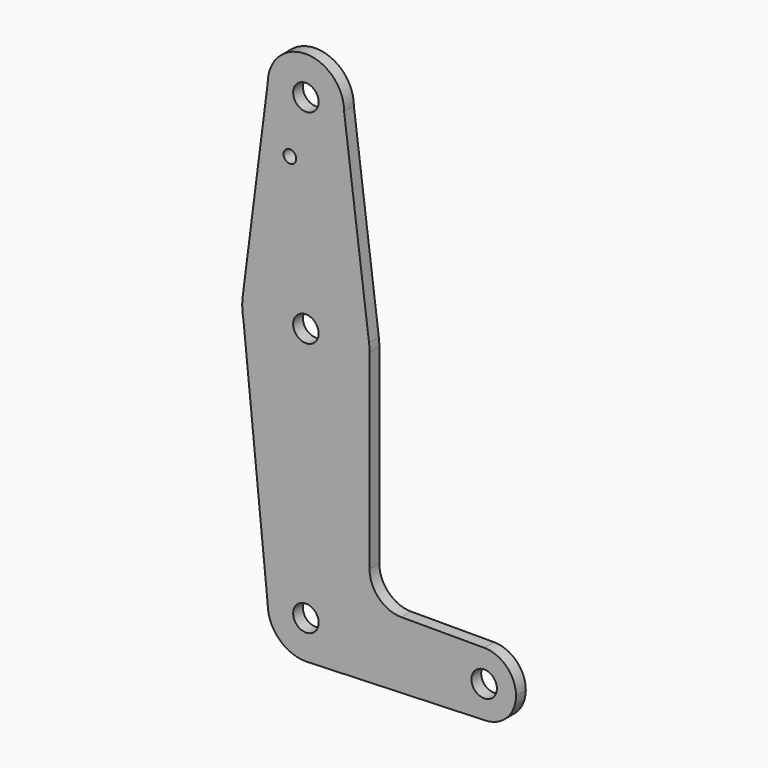
from build123d import *

# Parameters (mm, degrees)
F0_R     = 3.175
F0_R_2   = 1.5875
F1_DEPTH = 3.048


with BuildPart() as f1:
    # F0 (on Front) → F1 (new body)
    with BuildSketch(Plane.XZ):
        with BuildLine():
            ThreePointArc((15.747457, 2.008289), (0, 15.875), (-15.747457, 2.008289))
            ThreePointArc((-15.747457, 2.008289), (-15.843082, 1.006168), (-15.875, 0))
            Line((-15.875, 0), (-15.560644, -3.143564))
            ThreePointArc((-15.560644, -3.143564), (1.579622, -15.796215), (15.875, 0))
            ThreePointArc((15.875, 0), (15.843082, 1.006168), (15.747457, 2.008289))
        make_face()
        Circle(F0_R, mode=Mode.SUBTRACT)
        with BuildLine():
            Line((-9.525, 50.8), (-15.747457, 2.008289))
            ThreePointArc((-15.747457, 2.008289), (0, 15.875), (15.747457, 2.008289))
            Line((15.747457, 2.008289), (9.525, 50.8))
            ThreePointArc((9.525, 50.8), (0, 41.275), (-9.525, 50.8))
        make_face()
        with Locations((-3.993369, 36.5252)):
            Circle(F0_R_2, mode=Mode.SUBTRACT)
        with BuildLine():
            Line((-15.560644, -3.143564), (-15.875, 0))
            ThreePointArc((-15.875, 0), (-15.796215, -1.579622), (-15.560644, -3.143564))
        make_face()
        with BuildLine():
            ThreePointArc((9.525, 50.8), (0, 60.325), (-9.525, 50.8))
            ThreePointArc((-9.525, 50.8), (0, 41.275), (9.525, 50.8))
        make_face()
        with Locations((0, 50.8)):
            Circle(F0_R, mode=Mode.SUBTRACT)
        with BuildLine():
            ThreePointArc((15.875, 0), (1.579622, -15.796215), (-15.560644, -3.143564))
            Line((-15.560644, -3.143564), (-9.525, -63.5))
            ThreePointArc((-9.525, -63.5), (0, -53.975), (9.525, -63.5))
            ThreePointArc((9.525, -63.5), (6.970557, -69.991299), (0.677344, -73.000886))
            Line((0.677344, -73.000886), (44.732405, -71.432475))
            ThreePointArc((44.732405, -71.432475), (36.513756, -63.641225), (44.45, -55.5625))
            Line((44.45, -55.5625), (23.8252, -55.5625))
            ThreePointArc((23.8252, -55.5625), (18.20356, -53.23394), (15.875, -47.6123))
            Line((15.875, -47.6123), (15.875, 0))
        make_face()
        with BuildLine():
            ThreePointArc((9.525, -63.5), (0, -53.975), (-9.525, -63.5))
            ThreePointArc((-9.525, -63.5), (-6.735192, -70.235192), (0, -73.025))
            Line((0, -73.025), (0.677344, -73.000886))
            ThreePointArc((0.677344, -73.000886), (6.970557, -69.991299), (9.525, -63.5))
        make_face()
        with Locations((0, -63.5)):
            Circle(F0_R, mode=Mode.SUBTRACT)
        with BuildLine():
            Line((0.677344, -73.000886), (0, -73.025))
            ThreePointArc((0, -73.025), (0.338886, -73.01897), (0.677344, -73.000886))
        make_face()
        with BuildLine():
            ThreePointArc((52.3875, -63.5), (50.06266, -57.88734), (44.45, -55.5625))
            ThreePointArc((44.45, -55.5625), (36.513756, -63.641225), (44.732405, -71.432475))
            ThreePointArc((44.732405, -71.432475), (50.161633, -69.01191), (52.3875, -63.5))
        make_face()
        with Locations((44.45, -63.5)):
            Circle(F0_R, mode=Mode.SUBTRACT)
    extrude(amount=F1_DEPTH)


solid = f1.part
